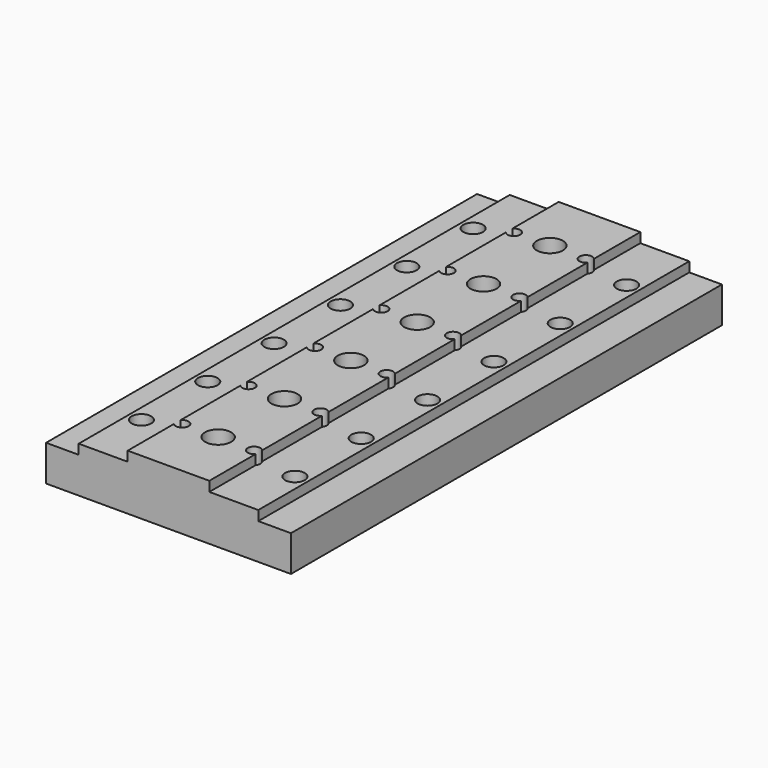
from build123d import *

# Parameters (mm, degrees)
F1_DEPTH  = 165
F3_D      = 6
F4_D      = 3.9
F5_D      = 8
F6_W      = 32
F6_H      = 155
F7_DEPTH  = 11
F8_R      = 3
F10_W     = 10
F10_H     = 165
F11_DEPTH = 3
F9_W      = 10
F9_H      = 165
F12_DEPTH = 3


with BuildPart() as f1:
    # F0 (on Front) → F1 (new body)
    with BuildSketch(Plane.XZ):
        Polygon((0, 14), (0, 0), (75, 0), (75, 14), (50, 14), (50, 17), (25, 17), (25, 14), align=None)
    extrude(amount=F1_DEPTH)

    # F3 (through all)
    with Locations(Plane(origin=(0, 0, 0), x_dir=(1, 0, 0), z_dir=(0, 0, -1))):
        with Locations((14, 146), (14, 120.6), (14, 95.2), (14, 69.8), (14, 44.4), (14, 19), (61, 146), (61, 120.6), (61, 95.2), (61, 69.8), (61, 44.4), (61, 19)):
            Hole(F3_D / 2)

    # F4 (through all)
    with Locations(Plane(origin=(0, 0, 0), x_dir=(1, 0, 0), z_dir=(0, 0, -1))):
        with Locations((26.5, 146), (26.5, 120.6), (26.5, 95.2), (26.5, 69.8), (26.5, 44.4), (26.5, 19), (48.5, 19), (48.5, 44.4), (48.5, 69.8), (48.5, 95.2), (48.5, 120.6), (48.5, 146)):
            Hole(F4_D / 2)

    # F5 (through all)
    with Locations(Plane(origin=(0, 0, 0), x_dir=(1, 0, 0), z_dir=(0, 0, -1))):
        with Locations((37.5, 146), (37.5, 120.6), (37.5, 95.2), (37.5, 69.8), (37.5, 44.4), (37.5, 19)):
            Hole(F5_D / 2)

    # F6 (on face) → F7 (cut)
    with BuildSketch(Plane(origin=(0, 0, 0), x_dir=(1, 0, 0), z_dir=(0, 0, -1))):
        with Locations((37.5, 82.5)):
            Rectangle(F6_W, F6_H)
    extrude(amount=-F7_DEPTH, mode=Mode.SUBTRACT)

    # F8
    f8_edges = [f1.edges().sort_by_distance(p)[0] for p in [
        (21.5, -160, 5.5),
        (53.5, -160, 5.5),
        (21.5, -5, 5.5),
        (53.5, -5, 5.5),
    ]]
    fillet(f8_edges, radius=F8_R)

    # F10 (on face) → F11 (cut)
    with BuildSketch(Plane.XY.offset(14)):
        with Locations((5, -82.5)):
            Rectangle(F10_W, F10_H)
    extrude(amount=-F11_DEPTH, mode=Mode.SUBTRACT)

    # F9 (on face) → F12 (cut)
    with BuildSketch(Plane.XY.offset(14)):
        with Locations((70, -82.5)):
            Rectangle(F9_W, F9_H)
    extrude(amount=-F12_DEPTH, mode=Mode.SUBTRACT)


solid = f1.part
